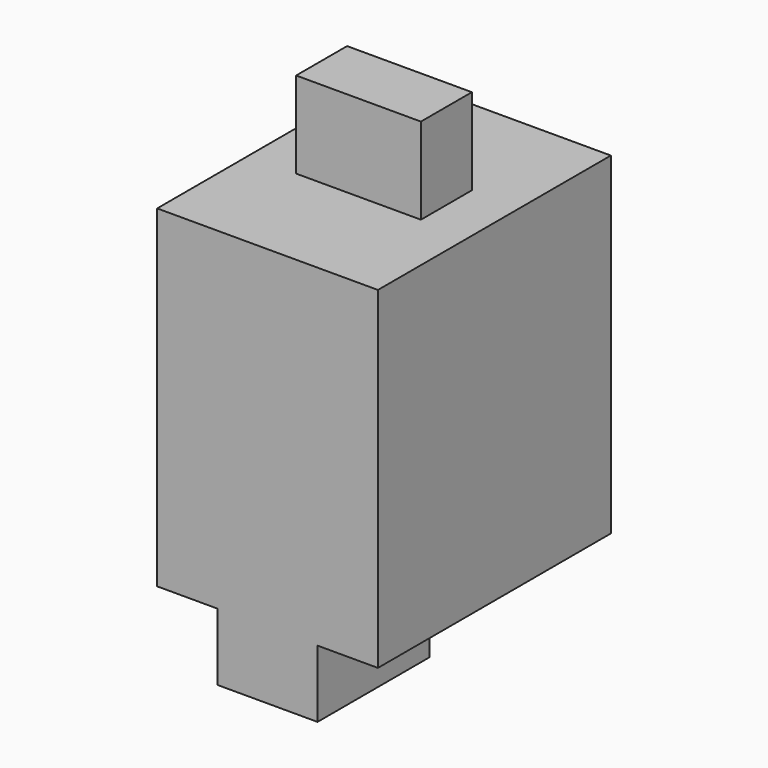
from build123d import *

# Parameters (mm, degrees)
F0_W     = 17.526
F0_H     = 23.114
F1_DEPTH = 26.416
F2_W     = 9.906
F2_H     = 5.056186
F3_DEPTH = 6.858
F4_W     = 7.9375
F4_H     = 11.1125
F5_DEPTH = 5.334


with BuildPart() as f1:
    # F0 (on Top) → F1 (new body)
    with BuildSketch(Plane.XY):
        Rectangle(F0_W, F0_H)
    extrude(amount=F1_DEPTH)

    # F2 (on face) → F3 (join)
    with BuildSketch(Plane.XY.offset(26.416)):
        Rectangle(F2_W, F2_H)
    extrude(amount=F3_DEPTH)

    # F4 (on face) → F5 (join)
    with BuildSketch(Plane(origin=(0, 0, 0), x_dir=(1, 0, 0), z_dir=(0, 0, -1))):
        with Locations((0, 6.00075)):
            Rectangle(F4_W, F4_H)
    extrude(amount=F5_DEPTH)


solid = f1.part
